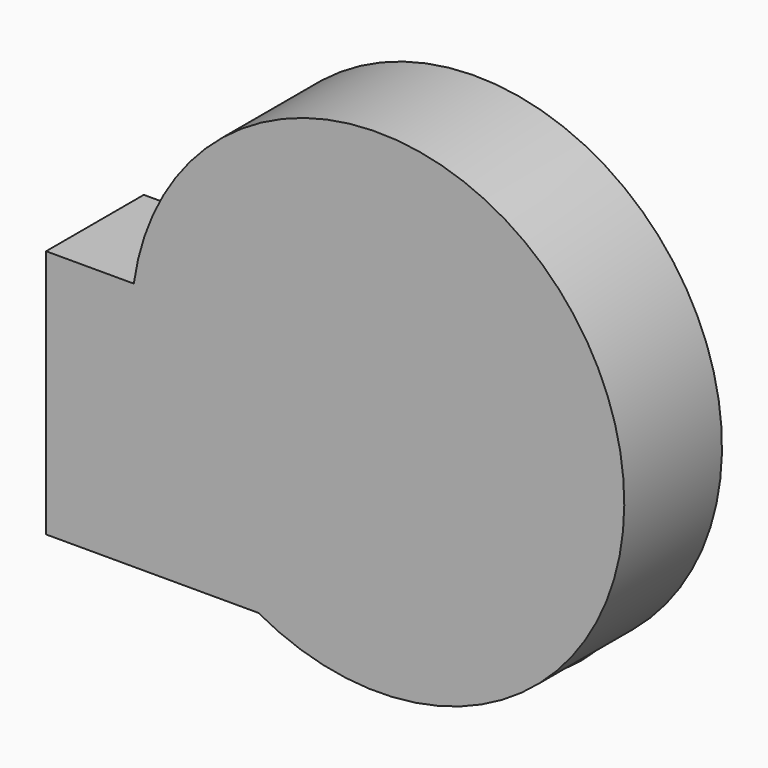
from build123d import *

# Parameters (mm, degrees)
F0_W     = 71.5159550309
F0_H     = 51.0343238711
F1_DEPTH = 25
F2_R     = 25
F3_DEPTH = 88
F4_R     = 50.4354263915
F5_DEPTH = 25


with BuildPart() as f1:
    # F0 (on Front) → F1 (new body)
    with BuildSketch(Plane.XZ):
        with Locations((35.7579775155, 25.5171619356)):
            Rectangle(F0_W, F0_H)
    extrude(amount=F1_DEPTH)

    # F2 (on Right) → F3 (join)
    with BuildSketch(Plane.YZ):
        with Locations((1.7605778567, 19.9215863818)):
            Circle(F2_R)
    extrude(amount=F3_DEPTH)

    # F4 (on Front) → F5 (join)
    with BuildSketch(Plane.XZ):
        with Locations((67.9112821817, 44.1088192165)):
            Circle(F4_R)
    extrude(amount=F5_DEPTH)


solid = f1.part
